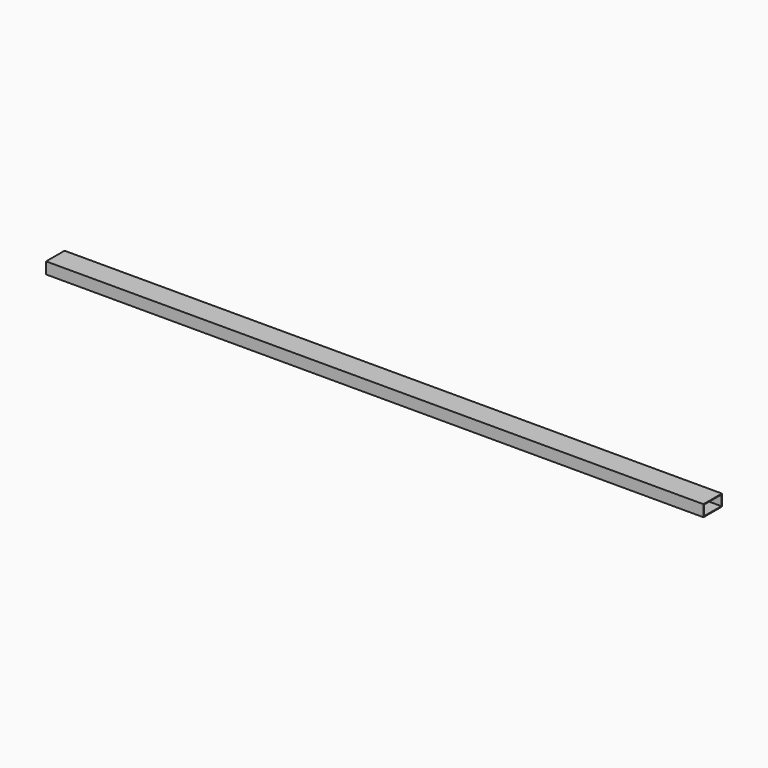
from build123d import *

# Parameters (mm, degrees)
F0_W     = 100
F0_H     = 50
F0_W_2   = 94
F0_H_2   = 44
F1_DEPTH = 2848


with BuildPart() as f1:
    # F0 (on Right) → F1 (new body)
    with BuildSketch(Plane.YZ):
        Rectangle(F0_W, F0_H)
        Rectangle(F0_W_2, F0_H_2, mode=Mode.SUBTRACT)
    extrude(amount=-F1_DEPTH)


solid = f1.part
